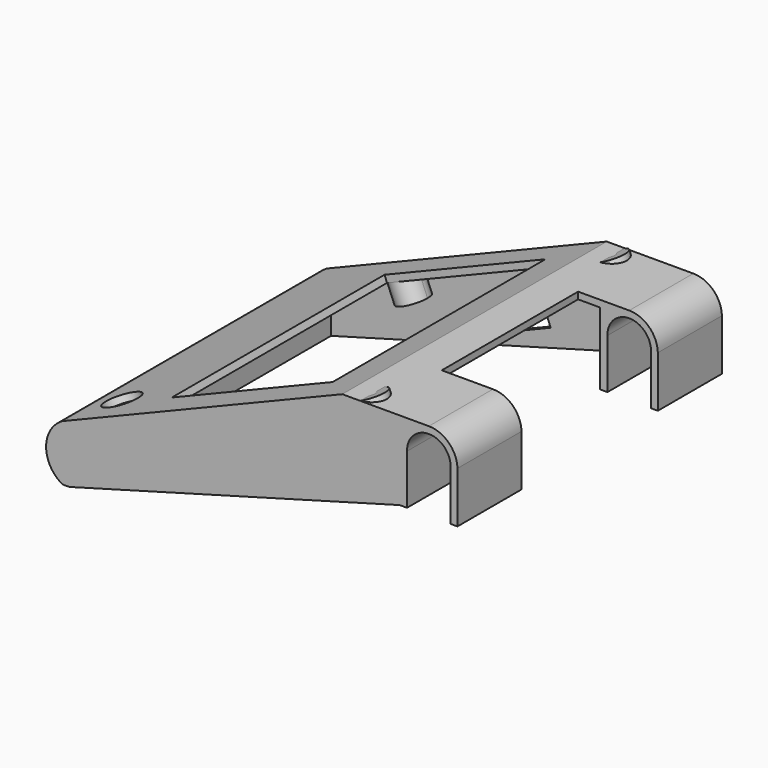
from build123d import *

# Parameters (mm, degrees)
F1_DEPTH  = 48.5
F2_R      = 4.5
F2_R_2    = 1.5
F3_DEPTH  = 6
F4_W      = 51
F4_H      = 78
F4_R      = 5
F5_DEPTH  = 5
F7_DEPTH  = 1
F9_DEPTH  = 1
F11_DEPTH = 97
F12_DEPTH = 97
F13_W     = 15
F13_H     = 50
F14_DEPTH = 30
F16_DEPTH = 2


with BuildPart() as f1:
    # F0 (on Front) → F1 (new body, symmetric)
    with BuildSketch(Plane.XZ):
        with BuildLine():
            Line((-80.49844719, 0), (0, 33))
            Line((0, 33), (16.4209198648, 33))
            Line((16.4209198648, 33), (16.4209198648, 11.8303052739))
            Line((16.4209198648, 11.8303052739), (18.6015999846, 11.8303052739))
            Line((18.6015999846, 11.8303052739), (18.6015999846, 26.4569012833))
            ThreePointArc((18.6015999846, 26.4569012833), (24.7826070747, 32.9963067716), (31.3933508991, 26.8916578155))
            ThreePointArc((31.3933508991, 26.8916578155), (31.4, 26.6), (31.3933508991, 26.3083421845))
            Line((31.3933508991, 26.3083421845), (31.3933508991, 11.8303052739))
            Line((31.3933508991, 11.8303052739), (33.3968422327, 11.8303052739))
            Line((33.3968422327, 11.8303052739), (33.3968422327, 26.3696947261))
            Line((33.3968422327, 26.3696947261), (33.3968422327, 26.8303052739))
            ThreePointArc((33.3968422327, 26.8303052739), (30.8577058521, 32.62057158), (25, 35))
            Line((25, 35), (-0.3940335036, 35))
            Line((-0.3940335036, 35), (-82.49844719, 1.3416407865))
            Line((-82.49844719, 1.3416407865), (-82.49844719, -15))
            Line((-82.49844719, -15), (-80.49844719, -15))
            Line((-80.49844719, -15), (-80.49844719, 0))
        make_face()
    extrude(amount=F1_DEPTH, both=True)

    # F2 (on face) → F3 (join)
    with BuildSketch(Plane(origin=(-11.5818217717, 0, 28.2520808561), x_dir=(0.9252695079, 0, 0.3793103448), z_dir=(0.3793103448, 0, -0.9252695079))):
        with Locations((17.1811336159, 44)):
            Circle(F2_R)
        with Locations((17.1811336159, 44)):
            Circle(F2_R_2, mode=Mode.SUBTRACT)
        with BuildLine():
            ThreePointArc((-43.3188663841, -44), (-51.0008468994, -40.8180194847), (-47.8188663841, -48.5))
            ThreePointArc((-47.8188663841, -48.5), (-44.6368858688, -47.1819805153), (-43.3188663841, -44))
        make_face()
        with Locations((-47.8188663841, -44)):
            Circle(F2_R_2, mode=Mode.SUBTRACT)
        with BuildLine():
            ThreePointArc((-47.8188663841, 48.5), (-51.0008468994, 40.8180194847), (-43.3188663841, 44))
            ThreePointArc((-43.3188663841, 44), (-44.6368858688, 47.1819805153), (-47.8188663841, 48.5))
        make_face()
        with Locations((-47.8188663841, 44)):
            Circle(F2_R_2, mode=Mode.SUBTRACT)
        with Locations((17.1811336159, -44)):
            Circle(F2_R)
        with Locations((17.1811336159, -44)):
            Circle(F2_R_2, mode=Mode.SUBTRACT)
    extrude(amount=F3_DEPTH)

    # F4 (on face) → F5 (cut)
    with BuildSketch(Plane(origin=(-12.3404424613, 0, 30.102619872), x_dir=(0.9252695079, 0, 0.3793103448), z_dir=(-0.3793103448, 0, 0.9252695079))):
        with Locations((-24.2887251171, 0.5)):
            Rectangle(F4_W, F4_H)
        with Locations((-67.3243994072, -36.5)):
            Circle(F4_R)
    extrude(amount=-F5_DEPTH, mode=Mode.SUBTRACT)

    # F6 (on face) → F7 (join)
    with BuildSketch(Plane.XZ.offset(48.5)):
        Polygon((-80.49844719, -15), (16.4209198648, 11.8303052739), (16.4209198648, 33), (5.040577039, 33), (0, 33), (-55.8271606545, 10.1138901941), (-80.49844719, 0), align=None)
    extrude(amount=-F7_DEPTH)

    # F8 (on face) → F9 (join)
    with BuildSketch(Plane(origin=(0, 48.5, 0), x_dir=(-1, 0, 0), z_dir=(0, 1, 0))):
        Polygon((-16.4209198648, 11.8303052739), (80.49844719, -15), (80.49844719, 0), (55.8271607407, 10.1138901587), (0, 33), (-5.040577039, 33), (-16.4209198648, 33), align=None)
    extrude(amount=-F9_DEPTH)

    # F10 (on face) → F11 (join)
    with BuildSketch(Plane(origin=(0, 48.5, 0), x_dir=(-1, 0, 0), z_dir=(0, 1, 0))):
        with BuildLine():
            Line((82.49844719, -13.8338189837), (82.49844719, -15))
            ThreePointArc((82.49844719, -15), (87.3045087217, -6.8291796068), (82.49844719, 1.3416407865))
            Line((82.49844719, 1.3416407865), (82.49844719, 0.1754597702))
            ThreePointArc((82.49844719, 0.1754597702), (86.3045087217, -6.8291796068), (82.49844719, -13.8338189837))
        make_face()
    extrude(amount=-F11_DEPTH)

    # F10 (on face) → F12 (join)
    with BuildSketch(Plane(origin=(0, 48.5, 0), x_dir=(-1, 0, 0), z_dir=(0, 1, 0))):
        with BuildLine():
            Line((82.49844719, 0.1754597702), (82.49844719, -13.8338189837))
            ThreePointArc((82.49844719, -13.8338189837), (86.3045087217, -6.8291796068), (82.49844719, 0.1754597702))
        make_face()
    extrude(amount=-F12_DEPTH)

    # F13 (on face) → F14 (cut)
    with BuildSketch(Plane.XY.offset(35)):
        with Locations((17.5, 0)):
            Rectangle(F13_W, F13_H)
        with Locations((32.5, 0)):
            Rectangle(F13_W, F13_H)
    extrude(amount=-F14_DEPTH, mode=Mode.SUBTRACT)

    # F15 (on face) → F16 (cut)
    with BuildSketch(Plane(origin=(0, 48.5, 0), x_dir=(-1, 0, 0), z_dir=(0, 1, 0))):
        Polygon((38.2937746964, 4.3324337855), (17.9378455219, 12.6772613717), (16.0412937978, 8.0509138321), (36.3972229723, -0.2939137541), align=None)
    extrude(amount=-F16_DEPTH, mode=Mode.SUBTRACT)


solid = f1.part
